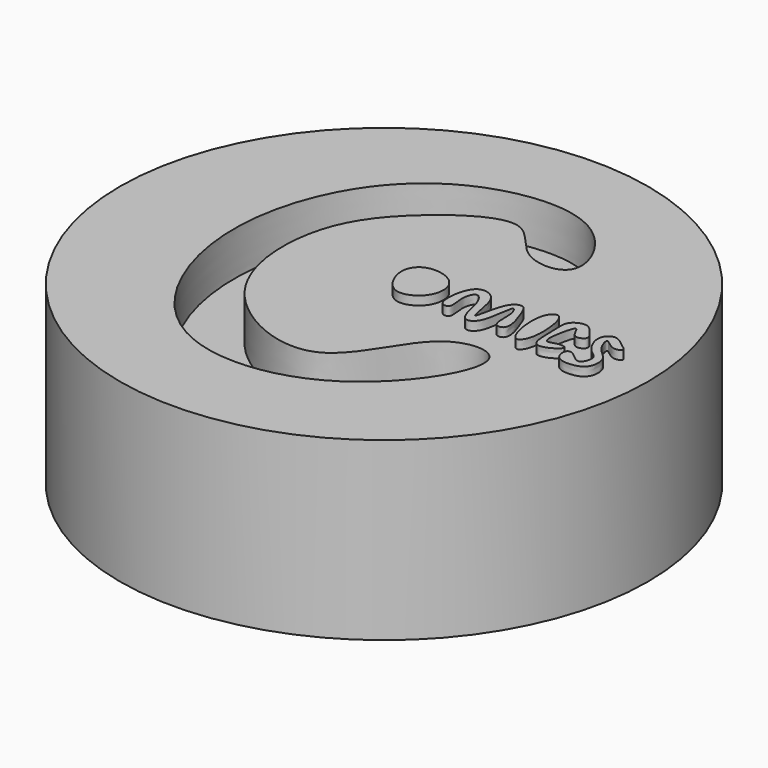
from build123d import *

# Parameters (mm, degrees)
F0_R      = 38.1
F1_DEPTH  = 19.05
F2_R      = 38.1
F8_DEPTH  = 6.35
F9_DEPTH  = 7.62
F10_DEPTH = 7.62
F11_DEPTH = 7.62
F12_DEPTH = 7.62
F13_DEPTH = 7.62


with BuildPart() as f1:
    # F0 (on Top) → F1 (new body)
    with BuildSketch(Plane.XY):
        Circle(F0_R)
    extrude(amount=F1_DEPTH)

    # F2 (on face) + F3 (on face) + F5 (on face) + F4 (on face) + F6 (on face) + F7 (on face) → F8 (join)
    with BuildSketch(Plane.XY.offset(19.05)):
        Circle(F2_R)
        with BuildLine():
            add(Edge.make_bspline(
                [(8.490270935, 15.6854130328), (10.4884020501, 14.4772485455), (17.0444894242, 14.4624493432), (10.6883615331, 28.3817547877), (-7.8191648938, 26.8985290547), (-19.983776837, 14.690404748), (-23.6160707539, -5.5097026698), (-12.1882655985, -27.2206403893), (12.5466386712, -25.3037109182), (24.8596952171, -4.9867144971), (11.5667185659, -5.0030322526), (6.6950349493, -22.7305941455), (-13.9889859715, -13.1878402591), (-15.6766477855, 4.7184245283), (-9.5600410982, 14.8299916239), (3.4931800095, 23.8112067657), (6.2026042623, 17.0686443992), (8.490270935, 15.6854130328)],
                knots=[0, 0, 0, 0, 0.043154026, 0.0997462096, 0.1725587434, 0.2451009252, 0.3244724621, 0.4070054758, 0.4907020383, 0.5646686416, 0.6109173036, 0.6793311563, 0.7521436909, 0.8244982396, 0.8873988584, 0.9505928183, 1, 1, 1, 1], degree=3))
        make_face(mode=Mode.SUBTRACT)
    with BuildSketch(Plane.XY.offset(19.05)):
        with BuildLine():
            add(Edge.make_bspline(
                [(2.8668039013, 4.1922810487), (1.903458662, 3.8907092151), (0.2899787173, 2.0779164929), (2.8946915839, -3.3926650303), (7.1946835295, -1.6621132205), (8.0480660938, 1.6092823291), (6.4789563632, 4.0434423796), (3.9223043394, 4.5227017428), (2.8668039013, 4.1922810487)],
                knots=[0, 0, 0, 0, 0.1543261155, 0.3539713894, 0.5251466669, 0.6838728561, 0.830910793, 1, 1, 1, 1], degree=3))
        make_face()
    with BuildSketch(Plane.XY.offset(19.05)):
        with BuildLine():
            add(Edge.make_bspline(
                [(20.4703677446, -1.2007179903), (20.0746400489, 0.3116225047), (19.958028469, 3.4796597349), (21.5328272298, 4.714957364), (22.6334777538, 3.4368171027), (23.0990558809, -1.5035866849), (21.5276627428, -3.6993501437), (20.7383508817, -2.2248609926), (20.4703677446, -1.2007179903)],
                knots=[0, 0, 0, 0, 0.2280652593, 0.3514040678, 0.4680909834, 0.7060791607, 0.8455563148, 1, 1, 1, 1], degree=3))
        make_face()
    with BuildSketch(Plane.XY.offset(19.05)):
        with BuildLine():
            add(Edge.make_bspline(
                [(9.5826145262, -1.4042272232), (8.9402962789, -0.5339799486), (9.5182292355, 4.1834910059), (12.5330558308, 3.9131209798), (13.8269876256, 1.9739707532), (14.3713349375, -3.776309475), (15.0491924081, 3.1328812711), (17.3353778046, 3.9876574509), (18.1329919143, 2.0085282563), (19.5229394631, -1.9035380526), (16.9683777611, -2.0806074017), (17.5636061977, 1.1798226036), (16.2390814666, 3.6574874282), (16.2222209639, -2.3011884195), (13.803305283, -3.3701778044), (12.9362236097, -0.7730009635), (12.5947910258, 1.4228120132), (11.2075055414, 3.1843548266), (10.2640897923, 0.8728043221), (11.1668928207, -1.7545411544), (9.8784338657, -1.8050191595), (9.5826145262, -1.4042272232)],
                knots=[0, 0, 0, 0, 0.07497475, 0.1239573364, 0.1786772953, 0.239131636, 0.310322896, 0.3558784548, 0.403190683, 0.4680974111, 0.5042967858, 0.5642185802, 0.6027740402, 0.6751449279, 0.7207004993, 0.7711708301, 0.8256312453, 0.8665920398, 0.9121103267, 0.9654704173, 1, 1, 1, 1], degree=3))
        make_face()
    with BuildSketch(Plane.XY.offset(19.05)):
        with BuildLine():
            add(Edge.make_bspline(
                [(26.8809143454, 3.4799983259), (26.4641860499, 3.9728476374), (25.7240545049, 4.9066497914), (23.0962921592, 3.8093076157), (23.7235549908, 1.0471665394), (23.2264676622, -4.1529809262), (28.1235471989, -1.2365265517), (25.8361028849, -0.9183447179), (24.0857995151, -1.9108051131), (24.438088158, 1.1450694839), (25.2397253055, 4.0655211489), (25.9556041593, 1.0456755928), (28.1918882273, 1.981004496), (27.2880193313, 2.9985301507), (26.8809143454, 3.4799983259)],
                knots=[0, 0, 0, 0, 0.0755899396, 0.1584287622, 0.2573199157, 0.3691578557, 0.4713329151, 0.5343577257, 0.604549046, 0.6978735954, 0.7798998917, 0.8573191074, 0.9261556232, 1, 1, 1, 1], degree=3))
        make_face()
    with BuildSketch(Plane.XY.offset(19.05)):
        with BuildLine():
            add(Edge.make_bspline(
                [(31.7651368678, 3.174734069), (31.1976941173, 3.6064199093), (30.1284981668, 4.6980823395), (28.013490742, 3.1327453103), (29.7026355904, -0.2849160534), (31.6066611339, -0.9172618284), (30.5584433266, -3.8781875978), (28.7469118416, -1.5555450303), (27.5130321945, -1.7119644817), (27.7990363618, -4.0245739777), (30.4011304036, -4.2197579741), (32.4065720235, -3.4371579585), (32.573866512, -0.4206252491), (30.3182374197, 0.6464213957), (29.3343386751, 3.8783446762), (31.2282578362, 1.6008799756), (33.0895750631, 2.3364106844), (32.194908331, 2.8477825746), (31.7651368678, 3.174734069)],
                knots=[0, 0, 0, 0, 0.0648282887, 0.1250671737, 0.2082812382, 0.2694260585, 0.3304292192, 0.3974743592, 0.4389225584, 0.4978189742, 0.5671546628, 0.631176445, 0.7012164847, 0.7749229858, 0.8385077353, 0.89956081, 0.9509001596, 1, 1, 1, 1], degree=3))
        make_face()
    extrude(amount=F8_DEPTH)

    # F4 (on face) → F9 (join)
    with BuildSketch(Plane.XY.offset(19.05)):
        with BuildLine():
            add(Edge.make_bspline(
                [(9.5826145262, -1.4042272232), (8.9402962789, -0.5339799486), (9.5182292355, 4.1834910059), (12.5330558308, 3.9131209798), (13.8269876256, 1.9739707532), (14.3713349375, -3.776309475), (15.0491924081, 3.1328812711), (17.3353778046, 3.9876574509), (18.1329919143, 2.0085282563), (19.5229394631, -1.9035380526), (16.9683777611, -2.0806074017), (17.5636061977, 1.1798226036), (16.2390814666, 3.6574874282), (16.2222209639, -2.3011884195), (13.803305283, -3.3701778044), (12.9362236097, -0.7730009635), (12.5947910258, 1.4228120132), (11.2075055414, 3.1843548266), (10.2640897923, 0.8728043221), (11.1668928207, -1.7545411544), (9.8784338657, -1.8050191595), (9.5826145262, -1.4042272232)],
                knots=[0, 0, 0, 0, 0.07497475, 0.1239573364, 0.1786772953, 0.239131636, 0.310322896, 0.3558784548, 0.403190683, 0.4680974111, 0.5042967858, 0.5642185802, 0.6027740402, 0.6751449279, 0.7207004993, 0.7711708301, 0.8256312453, 0.8665920398, 0.9121103267, 0.9654704173, 1, 1, 1, 1], degree=3))
        make_face()
    extrude(amount=F9_DEPTH)

    # F3 (on face) → F10 (join)
    with BuildSketch(Plane.XY.offset(19.05)):
        with BuildLine():
            add(Edge.make_bspline(
                [(2.8668039013, 4.1922810487), (1.903458662, 3.8907092151), (0.2899787173, 2.0779164929), (2.8946915839, -3.3926650303), (7.1946835295, -1.6621132205), (8.0480660938, 1.6092823291), (6.4789563632, 4.0434423796), (3.9223043394, 4.5227017428), (2.8668039013, 4.1922810487)],
                knots=[0, 0, 0, 0, 0.1543261155, 0.3539713894, 0.5251466669, 0.6838728561, 0.830910793, 1, 1, 1, 1], degree=3))
        make_face()
    extrude(amount=F10_DEPTH)

    # F5 (on face) → F11 (join)
    with BuildSketch(Plane.XY.offset(19.05)):
        with BuildLine():
            add(Edge.make_bspline(
                [(20.4703677446, -1.2007179903), (20.0746400489, 0.3116225047), (19.958028469, 3.4796597349), (21.5328272298, 4.714957364), (22.6334777538, 3.4368171027), (23.0990558809, -1.5035866849), (21.5276627428, -3.6993501437), (20.7383508817, -2.2248609926), (20.4703677446, -1.2007179903)],
                knots=[0, 0, 0, 0, 0.2280652593, 0.3514040678, 0.4680909834, 0.7060791607, 0.8455563148, 1, 1, 1, 1], degree=3))
        make_face()
    extrude(amount=F11_DEPTH)

    # F6 (on face) → F12 (join)
    with BuildSketch(Plane.XY.offset(19.05)):
        with BuildLine():
            add(Edge.make_bspline(
                [(26.8809143454, 3.4799983259), (26.4641860499, 3.9728476374), (25.7240545049, 4.9066497914), (23.0962921592, 3.8093076157), (23.7235549908, 1.0471665394), (23.2264676622, -4.1529809262), (28.1235471989, -1.2365265517), (25.8361028849, -0.9183447179), (24.0857995151, -1.9108051131), (24.438088158, 1.1450694839), (25.2397253055, 4.0655211489), (25.9556041593, 1.0456755928), (28.1918882273, 1.981004496), (27.2880193313, 2.9985301507), (26.8809143454, 3.4799983259)],
                knots=[0, 0, 0, 0, 0.0755899396, 0.1584287622, 0.2573199157, 0.3691578557, 0.4713329151, 0.5343577257, 0.604549046, 0.6978735954, 0.7798998917, 0.8573191074, 0.9261556232, 1, 1, 1, 1], degree=3))
        make_face()
    extrude(amount=F12_DEPTH)

    # F7 (on face) → F13 (join)
    with BuildSketch(Plane.XY.offset(19.05)):
        with BuildLine():
            add(Edge.make_bspline(
                [(31.7651368678, 3.174734069), (31.1976941173, 3.6064199093), (30.1284981668, 4.6980823395), (28.013490742, 3.1327453103), (29.7026355904, -0.2849160534), (31.6066611339, -0.9172618284), (30.5584433266, -3.8781875978), (28.7469118416, -1.5555450303), (27.5130321945, -1.7119644817), (27.7990363618, -4.0245739777), (30.4011304036, -4.2197579741), (32.4065720235, -3.4371579585), (32.573866512, -0.4206252491), (30.3182374197, 0.6464213957), (29.3343386751, 3.8783446762), (31.2282578362, 1.6008799756), (33.0895750631, 2.3364106844), (32.194908331, 2.8477825746), (31.7651368678, 3.174734069)],
                knots=[0, 0, 0, 0, 0.0648282887, 0.1250671737, 0.2082812382, 0.2694260585, 0.3304292192, 0.3974743592, 0.4389225584, 0.4978189742, 0.5671546628, 0.631176445, 0.7012164847, 0.7749229858, 0.8385077353, 0.89956081, 0.9509001596, 1, 1, 1, 1], degree=3))
        make_face()
    extrude(amount=F13_DEPTH)


solid = f1.part
